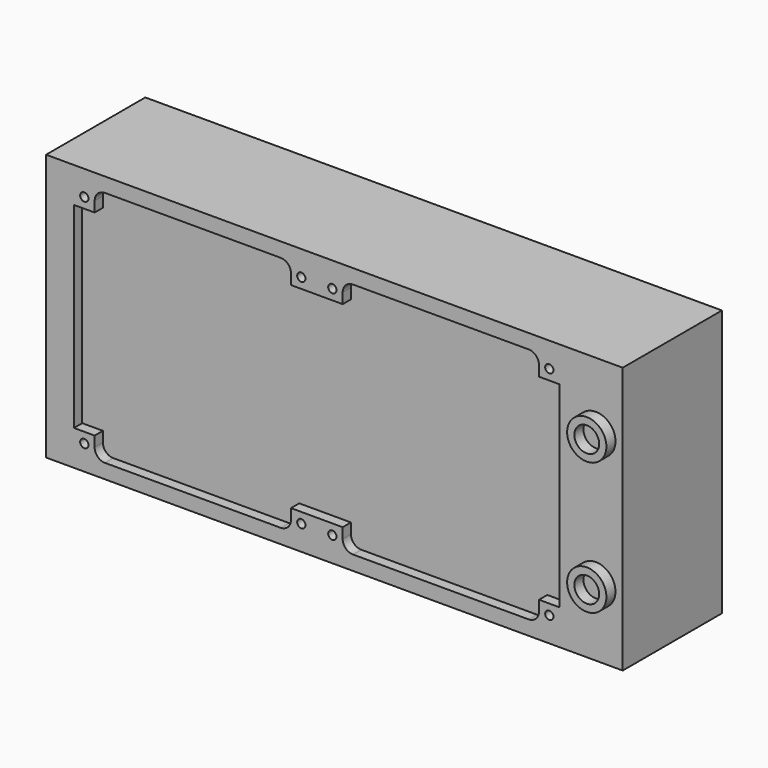
from build123d import *

# Parameters (mm, degrees)
F0_W     = 279
F0_H     = 129
F1_DEPTH = 60
F2_R     = 9.5
F2_R_2   = 6
F3_DEPTH = 5.5
F4_R     = 2
F5_DEPTH = 5
F6_R     = 2
F7_DEPTH = 5


with BuildPart() as f1:
    # F0 (on Front) → F1 (new body)
    with BuildSketch(Plane.XZ):
        with Locations((139.5, 0)):
            Rectangle(F0_W, F0_H)
    extrude(amount=F1_DEPTH)

    # F2 (on face) → F3 (join)
    with BuildSketch(Plane.XZ.offset(60)):
        with Locations((266, -32)):
            Circle(F2_R)
        with Locations((266, -32)):
            Circle(F2_R_2, mode=Mode.SUBTRACT)
        with Locations((266, 32)):
            Circle(F2_R)
        with Locations((266, 32)):
            Circle(F2_R_2, mode=Mode.SUBTRACT)
    extrude(amount=F3_DEPTH)

    # F4 (on face) → F5 (cut)
    with BuildSketch(Plane.XZ.offset(60)):
        with Locations((18.5, 52.5)):
            Circle(F4_R)
        with Locations((123.5, 52.5)):
            Circle(F4_R)
        with Locations((138.5, 52.5)):
            Circle(F4_R)
        with Locations((243.5, 52.5)):
            Circle(F4_R)
        with BuildLine():
            Line((23.5, 47.5), (13.5, 47.5))
            Line((13.5, 47.5), (13.5, 0))
            Line((13.5, 0), (13.5, -47.5))
            Line((13.5, -47.5), (23.5, -47.5))
            Line((23.5, -47.5), (23.5, -52.5))
            ThreePointArc((23.5, -52.5), (24.964466, -56.035534), (28.5, -57.5))
            Line((28.5, -57.5), (113.5, -57.5))
            ThreePointArc((113.5, -57.5), (117.035534, -56.035534), (118.5, -52.5))
            Line((118.5, -52.5), (118.5, -47.5))
            Line((118.5, -47.5), (143.5, -47.5))
            Line((143.5, -47.5), (143.5, -52.5))
            ThreePointArc((143.5, -52.5), (144.964466, -56.035534), (148.5, -57.5))
            Line((148.5, -57.5), (233.5, -57.5))
            ThreePointArc((233.5, -57.5), (237.035534, -56.035534), (238.5, -52.5))
            Line((238.5, -52.5), (238.5, -47.5))
            Line((238.5, -47.5), (248.5, -47.5))
            Line((248.5, -47.5), (248.5, 0))
            Line((248.5, 0), (248.5, 47.5))
            Line((248.5, 47.5), (238.5, 47.5))
            Line((238.5, 47.5), (238.5, 52.5))
            ThreePointArc((238.5, 52.5), (237.035534, 56.035534), (233.5, 57.5))
            Line((233.5, 57.5), (148.5, 57.5))
            ThreePointArc((148.5, 57.5), (144.964466, 56.035534), (143.5, 52.5))
            Line((143.5, 52.5), (143.5, 47.5))
            Line((143.5, 47.5), (118.5, 47.5))
            Line((118.5, 47.5), (118.5, 52.5))
            ThreePointArc((118.5, 52.5), (117.035534, 56.035534), (113.5, 57.5))
            Line((113.5, 57.5), (28.5, 57.5))
            ThreePointArc((28.5, 57.5), (24.964466, 56.035534), (23.5, 52.5))
            Line((23.5, 52.5), (23.5, 47.5))
        make_face()
        with Locations((243.5, -52.5)):
            Circle(F4_R)
        with Locations((138.5, -52.5)):
            Circle(F4_R)
        with Locations((123.5, -52.5)):
            Circle(F4_R)
        with Locations((18.5, -52.5)):
            Circle(F4_R)
    extrude(amount=-F5_DEPTH, mode=Mode.SUBTRACT)

    # F6 (on face) → F7 (cut)
    with BuildSketch(Plane(origin=(0, 0, 0), x_dir=(-1, 0, 0), z_dir=(0, 1, 0))):
        with Locations((-243.5, 52.5)):
            Circle(F6_R)
        with Locations((-138.5, 52.5)):
            Circle(F6_R)
        with Locations((-123.5, 52.5)):
            Circle(F6_R)
        with Locations((-18.5, 52.5)):
            Circle(F6_R)
        with BuildLine():
            Line((-238.5, 47.5), (-248.5, 47.5))
            Line((-248.5, 47.5), (-248.5, 0))
            Line((-248.5, 0), (-248.5, -47.5))
            Line((-248.5, -47.5), (-238.5, -47.5))
            Line((-238.5, -47.5), (-238.5, -52.5))
            ThreePointArc((-238.5, -52.5), (-237.035534, -56.035534), (-233.5, -57.5))
            Line((-233.5, -57.5), (-148.5, -57.5))
            ThreePointArc((-148.5, -57.5), (-144.964466, -56.035534), (-143.5, -52.5))
            Line((-143.5, -52.5), (-143.5, -47.5))
            Line((-143.5, -47.5), (-118.5, -47.5))
            Line((-118.5, -47.5), (-118.5, -52.5))
            ThreePointArc((-118.5, -52.5), (-117.035534, -56.035534), (-113.5, -57.5))
            Line((-113.5, -57.5), (-28.5, -57.5))
            ThreePointArc((-28.5, -57.5), (-24.964466, -56.035534), (-23.5, -52.5))
            Line((-23.5, -52.5), (-23.5, -47.5))
            Line((-23.5, -47.5), (-13.5, -47.5))
            Line((-13.5, -47.5), (-13.5, 0))
            Line((-13.5, 0), (-13.5, 47.5))
            Line((-13.5, 47.5), (-23.5, 47.5))
            Line((-23.5, 47.5), (-23.5, 52.5))
            ThreePointArc((-23.5, 52.5), (-24.964466, 56.035534), (-28.5, 57.5))
            Line((-28.5, 57.5), (-113.5, 57.5))
            ThreePointArc((-113.5, 57.5), (-117.035534, 56.035534), (-118.5, 52.5))
            Line((-118.5, 52.5), (-118.5, 47.5))
            Line((-118.5, 47.5), (-143.5, 47.5))
            Line((-143.5, 47.5), (-143.5, 52.5))
            ThreePointArc((-143.5, 52.5), (-144.964466, 56.035534), (-148.5, 57.5))
            Line((-148.5, 57.5), (-233.5, 57.5))
            ThreePointArc((-233.5, 57.5), (-237.035534, 56.035534), (-238.5, 52.5))
            Line((-238.5, 52.5), (-238.5, 47.5))
        make_face()
        with Locations((-18.5, -52.5)):
            Circle(F6_R)
        with Locations((-123.5, -52.5)):
            Circle(F6_R)
        with Locations((-138.5, -52.5)):
            Circle(F6_R)
        with Locations((-243.5, -52.5)):
            Circle(F6_R)
    extrude(amount=-F7_DEPTH, mode=Mode.SUBTRACT)


solid = f1.part
